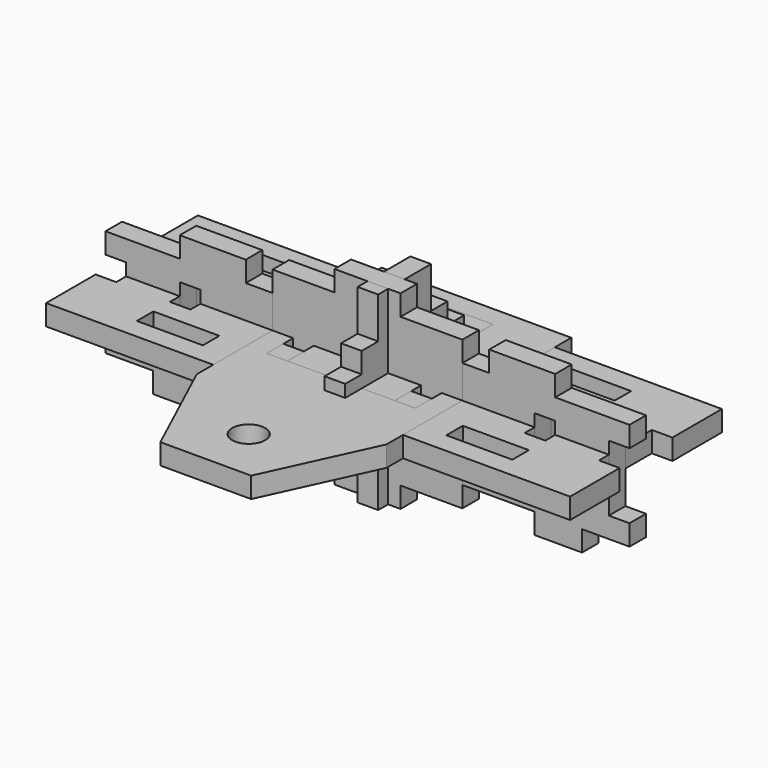
from build123d import *

# Parameters (mm, degrees)
F0_W      = 16
F0_H      = 5
F0_W_2    = 5
F0_H_2    = 16
F9_DEPTH  = 5
F1_R      = 4
F10_DEPTH = 5
F2_W      = 46
F2_H      = 46
F2_W_2    = 16
F2_H_2    = 5
F2_W_3    = 5
F2_H_3    = 16
F11_DEPTH = 5
F12_DEPTH = 5
F4_W      = 5
F4_H      = 16
F13_DEPTH = 5
F5_R      = 4
F14_DEPTH = 5
F15_DEPTH = 5
F7_R      = 4
F7_W      = 5
F7_H      = 16
F7_W_2    = 16
F7_H_2    = 5
F16_DEPTH = 5
F17_DEPTH = 5
F18_W     = 26
F18_H     = 26
F18_R     = 4
F19_DEPTH = 5


with BuildPart() as f9:
    # F0 (on Top) → F9 (new body)
    with BuildSketch(Plane.XY):
        Polygon((-63.5, -23), (63.5, -23), (63.5, -8), (58.5, -8), (58.5, 8), (63.5, 8), (63.5, 23), (-63.5, 23), (-63.5, 8), (-58.5, 8), (-58.5, -8), (-63.5, -8), align=None)
        with Locations((-37.5, -15.5)):
            Rectangle(F0_W, F0_H, mode=Mode.SUBTRACT)
        with Locations((0, -15.5)):
            Rectangle(F0_W, F0_H, mode=Mode.SUBTRACT)
        with Locations((37.5, -15.5)):
            Rectangle(F0_W, F0_H, mode=Mode.SUBTRACT)
        with Locations((-43, 0)):
            Rectangle(F0_W_2, F0_H_2, mode=Mode.SUBTRACT)
        with Locations((-15.5, 0)):
            Rectangle(F0_W_2, F0_H_2, mode=Mode.SUBTRACT)
        with Locations((-37.5, 15.5)):
            Rectangle(F0_W, F0_H, mode=Mode.SUBTRACT)
        with Locations((15.5, 0)):
            Rectangle(F0_W_2, F0_H_2, mode=Mode.SUBTRACT)
        with Locations((43, 0)):
            Rectangle(F0_W_2, F0_H_2, mode=Mode.SUBTRACT)
        with Locations((0, 15.5)):
            Rectangle(F0_W, F0_H, mode=Mode.SUBTRACT)
        with Locations((37.5, 15.5)):
            Rectangle(F0_W, F0_H, mode=Mode.SUBTRACT)
    extrude(amount=F9_DEPTH)


with BuildPart() as f10:
    # F1 (on Right) → F10 (new body)
    with BuildSketch(Plane.YZ):
        Polygon((13, -8), (18, -8), (18, 8), (13, 8), (13, 13), (8, 13), (8, 18), (-8, 18), (-8, 13), (-13, 13), (-13, 8), (-18, 8), (-18, -8), (-13, -8), (-13, -13), (-8, -13), (-8, -18), (8, -18), (8, -13), (13, -13), align=None)
        Circle(F1_R, mode=Mode.SUBTRACT)
    extrude(amount=F10_DEPTH)


with BuildPart() as f11:
    # F2 (on Top) → F11 (new body)
    with BuildSketch(Plane.XY):
        Rectangle(F2_W, F2_H)
        with Locations((0, -15.5)):
            Rectangle(F2_W_2, F2_H_2, mode=Mode.SUBTRACT)
        with Locations((-15.5, 0)):
            Rectangle(F2_W_3, F2_H_3, mode=Mode.SUBTRACT)
        with Locations((15.5, 0)):
            Rectangle(F2_W_3, F2_H_3, mode=Mode.SUBTRACT)
        with Locations((0, 15.5)):
            Rectangle(F2_W_2, F2_H_2, mode=Mode.SUBTRACT)
    extrude(amount=F11_DEPTH)


with BuildPart() as f12:
    # F3 (on Top) → F12 (new body)
    with BuildSketch(Plane.XY):
        Polygon((-11.5, -23), (11.5, -23), (11.5, -18), (0, -18), (0, -13), (11.5, -13), (11.5, 13), (0, 13), (0, 18), (11.5, 18), (11.5, 23), (-11.5, 23), (-11.5, 8), (-6.5, 8), (-6.5, -8), (-11.5, -8), align=None)
        Polygon((-11.5, -23), (11.5, -23), (11.5, -18), (0, -18), (0, -13), (11.5, -13), (11.5, 13), (0, 13), (0, 18), (11.5, 18), (11.5, 23), (-11.5, 23), (-11.5, 8), (-6.5, 8), (-6.5, -8), (-11.5, -8), align=None)
    extrude(amount=F12_DEPTH)


with BuildPart() as f13:
    # F4 (on Front) → F13 (new body)
    with BuildSketch(Plane.XZ):
        Polygon((52, -13), (63.5, -13), (63.5, -8), (58.5, -8), (58.5, 8), (63.5, 8), (63.5, 13), (45.5, 13), (45.5, 18), (29.5, 18), (29.5, 13), (8, 13), (8, 18), (-8, 18), (-8, 13), (-29.5, 13), (-29.5, 18), (-45.5, 18), (-45.5, 13), (-63.5, 13), (-63.5, 8), (-58.5, 8), (-58.5, -8), (-63.5, -8), (-63.5, -13), (-52, -13), (-52, -18), (-40.5, -18), (-40.5, -13), (-8, -13), (-8, -18), (8, -18), (8, -13), (40.5, -13), (40.5, -18), (52, -18), align=None)
        with Locations((-43, 0)):
            Rectangle(F4_W, F4_H, mode=Mode.SUBTRACT)
        with Locations((-15.5, 0)):
            Rectangle(F4_W, F4_H, mode=Mode.SUBTRACT)
        with Locations((15.5, 0)):
            Rectangle(F4_W, F4_H, mode=Mode.SUBTRACT)
        with Locations((43, 0)):
            Rectangle(F4_W, F4_H, mode=Mode.SUBTRACT)
    extrude(amount=F13_DEPTH)


with BuildPart() as f14:
    # F5 (on Right) → F14 (new body)
    with BuildSketch(Plane.YZ):
        Polygon((13, -8), (18, -8), (18, 8), (13, 8), (13, 13), (8, 13), (8, 18), (-8, 18), (-8, 13), (-13, 13), (-13, 8), (-18, 8), (-18, -8), (-13, -8), (-13, -13), (-8, -13), (-8, -18), (8, -18), (8, -13), (13, -13), align=None)
        Circle(F5_R, mode=Mode.SUBTRACT)
    extrude(amount=F14_DEPTH)


with BuildPart() as f15:
    # F6 (on Right) → F15 (new body)
    with BuildSketch(Plane.YZ):
        Polygon((13, -8), (18, -8), (18, 8), (13, 8), (13, 13), (8, 13), (8, 23), (-8, 23), (-8, 13), (-13, 13), (-13, 8), (-18, 8), (-18, -8), (-13, -8), (-13, -13), (-8, -13), (-8, -23), (8, -23), (8, -13), (13, -13), align=None)
        Polygon((13, -8), (18, -8), (18, 8), (13, 8), (13, 13), (8, 13), (8, 23), (-8, 23), (-8, 13), (-13, 13), (-13, 8), (-18, 8), (-18, -8), (-13, -8), (-13, -13), (-8, -13), (-8, -23), (8, -23), (8, -13), (13, -13), align=None)
    extrude(amount=F15_DEPTH)


with BuildPart() as f16:
    # F7 (on Top) → F16 (new body)
    with BuildSketch(Plane.XY):
        Polygon((23, -28), (23, 28), (-23, 28), (-23, -28), (-11, -54), (11, -54), align=None)
        with Locations((0, -41)):
            Circle(F7_R, mode=Mode.SUBTRACT)
        with Locations((-15.5, -5)):
            Rectangle(F7_W, F7_H, mode=Mode.SUBTRACT)
        with Locations((15.5, -5)):
            Rectangle(F7_W, F7_H, mode=Mode.SUBTRACT)
        with Locations((0, 20.5)):
            Rectangle(F7_W_2, F7_H_2, mode=Mode.SUBTRACT)
    extrude(amount=F16_DEPTH)


with BuildPart() as f17:
    # F8 (on Front) → F17 (new body)
    with BuildSketch(Plane.XZ):
        Polygon((-8, -23), (8, -23), (8, -18), (23, -18), (23, 18), (8, 18), (8, 23), (-8, 23), (-8, 18), (-23, 18), (-23, -18), (-8, -18), align=None)
    extrude(amount=F17_DEPTH)


with BuildPart() as f19:
    # F18 (on Top) → F19 (new body)
    with BuildSketch(Plane.XY):
        Rectangle(F18_W, F18_H)
        Circle(F18_R, mode=Mode.SUBTRACT)
        Rectangle(F18_W, F18_H)
        Circle(F18_R, mode=Mode.SUBTRACT)
    extrude(amount=F19_DEPTH)


solid = Compound([f9.part, f10.part, f11.part, f12.part, f13.part, f14.part, f15.part, f16.part, f17.part, f19.part])
